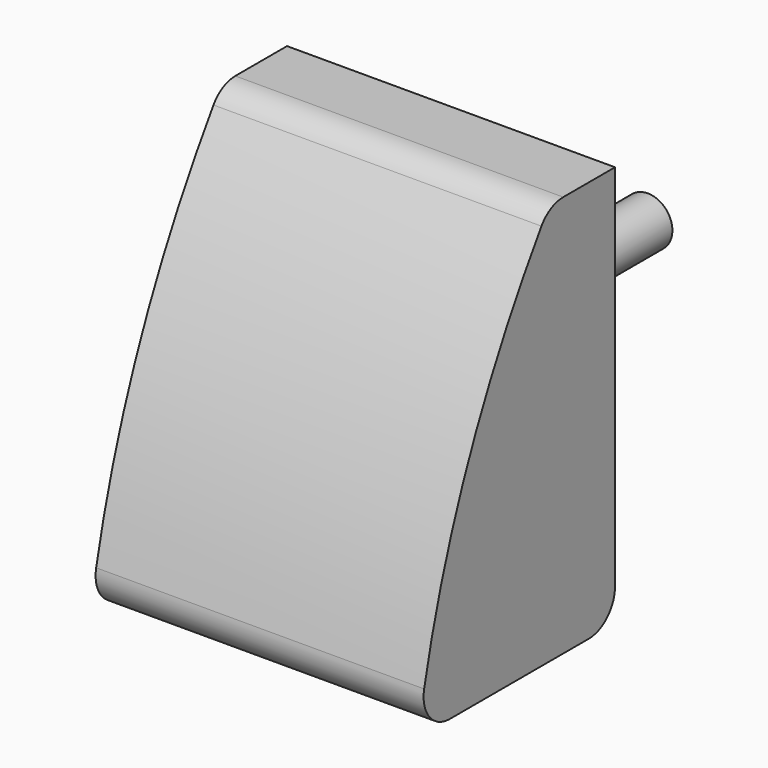
from build123d import *

# Parameters (mm, degrees)
F1_DEPTH = 10
F5_R     = 2


with BuildPart() as f1:
    # F0 (on Right) → F1 (new body, symmetric)
    with BuildSketch(Plane.YZ):
        with BuildLine():
            Line((-15, 0), (0, 0))
            Line((0, 0), (0, 24.5))
            Line((0, 24.5), (-5, 24.5))
            ThreePointArc((-5, 24.5), (-11.367509, 12.808167), (-15, 0))
        make_face()
    extrude(amount=F1_DEPTH, both=True)

    # F3 (on Right) → F4 (revolve)
    with BuildSketch(Plane.YZ):
        Polygon((0, 12.25), (15, 12.25), (15, 13.75), (10, 13.75), (1.75, 16.75), (1.75, 15.5), (0, 15.5), align=None)
    revolve(axis=Axis((0, 7.5, 12.25), (0, -1, 0)))

    # F5
    f5_edges = [f1.edges().sort_by_distance(p)[0] for p in [
        (0, -5, 24.5),
        (0, -15, 0),
        (0, 0, 0),
    ]]
    fillet(f5_edges, radius=F5_R)


solid = f1.part
